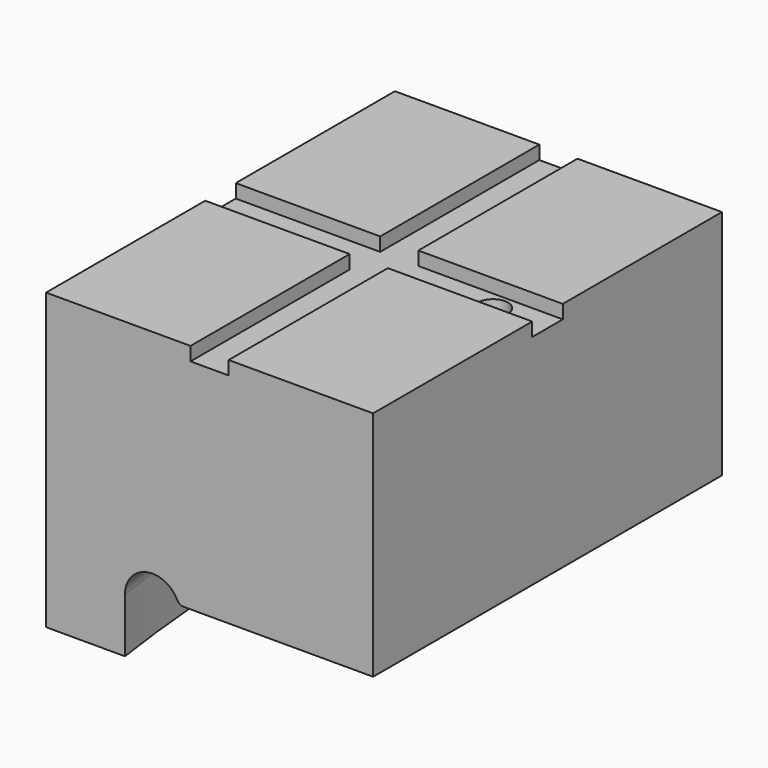
from build123d import *

# Parameters (mm, degrees)
F5_DEPTH  = 108.1010001
F7_DEPTH  = 108.1
F9_DEPTH  = 5
F10_R     = 8.5
F11_DEPTH = 11
F12_R     = 5.5
F13_DEPTH = 69.1


with BuildPart() as f3:
    # F3: sweep along a path in F2
    with BuildLine(Plane.XY.offset(139.4)) as f3_path:
        ThreePointArc((-340.8897771879, 286.0404863105), (-445, 0), (-340.8897771879, -286.0404863105))
    # F0 (on Front) → F3 (sweep)
    with BuildSketch(Plane.XZ):
        with BuildLine():
            Line((-565, 116.4), (-542, 116.4))
            Line((-542, 116.4), (-542, 136.4))
            ThreePointArc((-542, 136.4), (-534.2583426132, 146.1416573868), (-523.0200222717, 140.8))
            ThreePointArc((-523.0200222717, 140.8), (-522.0979034952, 139.7786796564), (-520.7750278397, 139.4))
            Line((-520.7750278397, 139.4), (-445, 139.4))
            Line((-445, 139.4), (-445, 224.5))
            Line((-445, 224.5), (-565, 224.5))
            Line((-565, 224.5), (-565, 116.4))
        make_face()
    sweep(path=f3_path.line)

    # F4 (on face) → F5 (cut, through all)
    with BuildSketch(Plane.XY.offset(224.5)):
        with BuildLine():
            ThreePointArc((-432.8151103622, 363.1749994729), (-515.8719724812, 230.4367765969), (-559.3076076722, 80))
            Line((-559.3076076722, 80), (-445, 80))
            Line((-445, 80), (-445, 0))
            ThreePointArc((-445, 0), (-418.1632162497, 152.1989637799), (-340.8897771879, 286.0404863105))
            Line((-340.8897771879, 286.0404863105), (-432.8151103622, 363.1749994729))
        make_face()
        with BuildLine():
            Line((-445, -80), (-559.3076076722, -80))
            ThreePointArc((-559.3076076722, -80), (-515.8719724812, -230.4367765969), (-432.8151103622, -363.1749994729))
            Line((-432.8151103622, -363.1749994729), (-340.8897771879, -286.0404863105))
            ThreePointArc((-340.8897771879, -286.0404863105), (-418.1632162497, -152.1989637799), (-445, 0))
            Line((-445, 0), (-445, -80))
        make_face()
    extrude(amount=-F5_DEPTH, mode=Mode.SUBTRACT)

    # F6 (on face) → F7 (join, through all)
    with BuildSketch(Plane.XY.offset(224.5)):
        with BuildLine():
            ThreePointArc((-565, 0), (-563.57510517, 40.1011325601), (-559.3076076722, 80))
            Line((-559.3076076722, 80), (-565, 80))
            Line((-565, 80), (-565, 0))
        make_face()
        with BuildLine():
            ThreePointArc((-559.3076076722, -80), (-563.57510517, -40.1011325601), (-565, 0))
            Line((-565, 0), (-565, -80))
            Line((-565, -80), (-559.3076076722, -80))
        make_face()
    extrude(amount=-F7_DEPTH)

    # F8 (on face) → F9 (cut)
    with BuildSketch(Plane.XY.offset(224.5)):
        Polygon((-498, 80), (-512, 80), (-512, 7), (-565, 7), (-565, -7), (-512, -7), (-512, -80), (-498, -80), (-498, -7), (-445, -7), (-445, 7), (-498, 7), align=None)
    extrude(amount=-F9_DEPTH, mode=Mode.SUBTRACT)

    # F10 (on face) → F11 (cut)
    with BuildSketch(Plane(origin=(0, 0, 139.4), x_dir=(1, 0, 0), z_dir=(0, 0, -1))):
        with Locations((-465, 0)):
            Circle(F10_R)
    extrude(amount=-F11_DEPTH, mode=Mode.SUBTRACT)

    # F12 (on face) → F13 (cut, through all)
    with BuildSketch(Plane(origin=(0, 0, 150.4), x_dir=(1, 0, 0), z_dir=(0, 0, -1))):
        with Locations((-465, 0)):
            Circle(F12_R)
    extrude(amount=-F13_DEPTH, mode=Mode.SUBTRACT)


solid = f3.part
